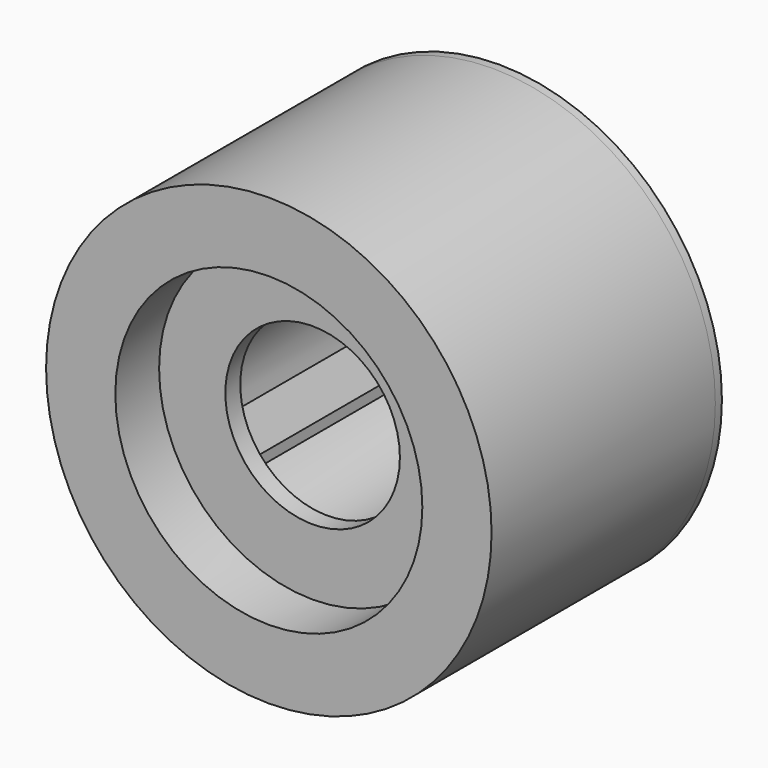
from build123d import *

# Parameters (mm, degrees)
F0_R      = 4.07
F1_DEPTH  = 5.111
F2_R      = 2.805
F3_DEPTH  = 1
F4_R      = 1.8
F5_DEPTH  = 3.77
F6_R      = 1.595
F7_DEPTH  = 4.112
F9_DEPTH  = 3.8
F10_R     = 4.07
F10_R_2   = 3.12
F11_DEPTH = 0.15


with BuildPart() as f1:
    # F0 (on Front) → F1 (new body)
    with BuildSketch(Plane.XZ):
        with Locations((-37.221067, 44.138376)):
            Circle(F0_R)
    extrude(amount=F1_DEPTH)

    # F2 (on face) → F3 (cut)
    with BuildSketch(Plane.XZ.offset(5.111)):
        with Locations((-37.221067, 44.138376)):
            Circle(F2_R)
    extrude(amount=-F3_DEPTH, mode=Mode.SUBTRACT)

    # F4 (on face) → F5 (cut)
    with BuildSketch(Plane(origin=(0, 0, 0), x_dir=(-1, 0, 0), z_dir=(0, 1, 0))):
        with Locations((37.221067, 44.138376)):
            Circle(F4_R)
    extrude(amount=-F5_DEPTH, mode=Mode.SUBTRACT)

    # F6 (on face) → F7 (cut, through all)
    with BuildSketch(Plane.XZ.offset(4.111)):
        with Locations((-37.221067, 44.138376)):
            Circle(F6_R)
    extrude(amount=-F7_DEPTH, mode=Mode.SUBTRACT)

    # F8 (on face) → F9 (cut)
    with BuildSketch(Plane(origin=(0, 0, 0), x_dir=(-1, 0, 0), z_dir=(0, 1, 0))):
        Polygon((36.780077, 46.764019), (36.780077, 45.88352), (37.660077, 45.884019), (37.660077, 46.764019), align=None)
        Polygon((34.727688, 43.205748), (35.167688, 42.443646), (35.930222, 42.883896), (35.48979, 43.645748), align=None)
        Polygon((39.275435, 42.44536), (39.715435, 43.207462), (38.952901, 43.647712), (38.513333, 42.88536), align=None)
    extrude(amount=-F9_DEPTH, mode=Mode.SUBTRACT)

    # F10 (on face) → F11 (join)
    with BuildSketch(Plane(origin=(0, 0, 0), x_dir=(-1, 0, 0), z_dir=(0, 1, 0))):
        with Locations((37.221067, 44.138376)):
            Circle(F10_R)
        with Locations((37.221067, 44.138376)):
            Circle(F10_R_2, mode=Mode.SUBTRACT)
    extrude(amount=F11_DEPTH)


solid = f1.part
